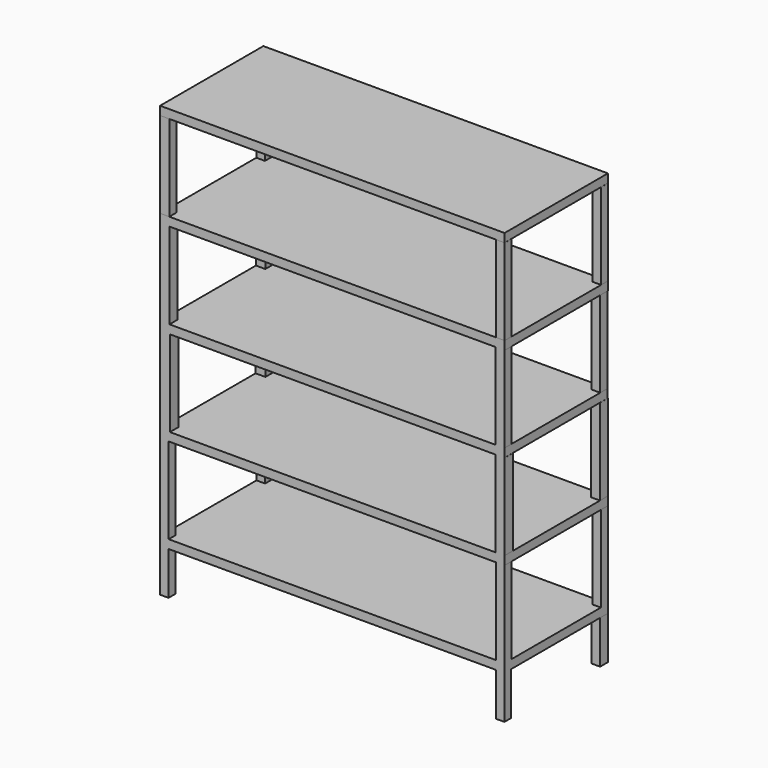
from build123d import *

# Parameters (mm, degrees)
F0_W      = 1219.2
F0_H      = 457.2
F1_DEPTH  = 30.48
F2_W      = 30.48
F2_H      = 30.48
F3_DEPTH  = 304.8
F4_W      = 1219.399333
F4_H      = 457.2
F5_DEPTH  = 30.48
F6_W      = 34.828458
F6_H      = 34.557978
F6_H_2    = 37.642892
F6_W_2    = 32.247782
F7_DEPTH  = 304.8
F8_W      = 1219.034433
F8_H      = 457.2
F9_DEPTH  = 30.48
F10_W     = 33.388406
F10_H     = 33.091525
F10_H_2   = 36.531758
F10_W_2   = 30.88665
F10_H_3   = 30.553704
F11_DEPTH = 304.8
F12_W     = 1219.895244
F12_H     = 457.2
F13_DEPTH = 30.48
F14_W     = 30.466625
F14_H     = 31.133303
F14_W_2   = 32.839023
F14_H_2   = 30.668437
F14_W_3   = 30.638695
F14_H_3   = 30.44186
F15_DEPTH = 304.8
F16_W     = 1219.728589
F16_H     = 457.2
F17_DEPTH = 30.48
F18_W     = 30.170821
F18_H     = 29.71437
F18_H_2   = 33.622691
F18_W_2   = 31.298265
F18_H_3   = 33.891836
F18_W_3   = 30.410752
F19_DEPTH = 152.4


with BuildPart() as f1:
    # F0 (on Top) → F1 (new body)
    with BuildSketch(Plane.XY):
        with Locations((609.6, 228.6)):
            Rectangle(F0_W, F0_H)
    extrude(amount=F1_DEPTH)

    # F2 (on face) → F3 (join)
    with BuildSketch(Plane.XY.offset(30.48)):
        with Locations((15.24, 15.24)):
            Rectangle(F2_W, F2_H)
        with Locations((15.24, 441.96)):
            Rectangle(F2_W, F2_H)
        with Locations((1203.96, 441.96)):
            Rectangle(F2_W, F2_H)
        with Locations((1203.96, 15.24)):
            Rectangle(F2_W, F2_H)
    extrude(amount=F3_DEPTH)

    # F4 (on face) → F5 (join)
    with BuildSketch(Plane.XY.offset(335.28)):
        with Locations((609.699666, 228.6)):
            Rectangle(F4_W, F4_H)
    extrude(amount=F5_DEPTH)

    # F6 (on face) → F7 (join)
    with BuildSketch(Plane.XY.offset(365.76)):
        with Locations((17.414229, 439.921011)):
            Rectangle(F6_W, F6_H)
        with Locations((17.414229, 18.821446)):
            Rectangle(F6_W, F6_H_2)
        with Locations((1203.275442, 18.821446)):
            Rectangle(F6_W_2, F6_H_2)
        with Locations((1203.275442, 439.921011)):
            Rectangle(F6_W_2, F6_H)
    extrude(amount=F7_DEPTH)

    # F8 (on face) → F9 (join)
    with BuildSketch(Plane.XY.offset(670.56)):
        with Locations((609.517217, 228.6)):
            Rectangle(F8_W, F8_H)
    extrude(amount=F9_DEPTH)

    # F10 (on face) → F11 (join)
    with BuildSketch(Plane.XY.offset(701.04)):
        with Locations((16.694203, 440.654238)):
            Rectangle(F10_W, F10_H)
        with Locations((16.694203, 18.265879)):
            Rectangle(F10_W, F10_H_2)
        with Locations((1203.591108, 15.276852)):
            Rectangle(F10_W_2, F10_H_3)
        with Locations((1203.591108, 440.654238)):
            Rectangle(F10_W_2, F10_H)
    extrude(amount=F11_DEPTH)

    # F12 (on face) → F13 (join)
    with BuildSketch(Plane.XY.offset(1005.84)):
        with Locations((609.947622, 228.6)):
            Rectangle(F12_W, F12_H)
    extrude(amount=F13_DEPTH)

    # F14 (on face) → F15 (join)
    with BuildSketch(Plane.XY.offset(1036.32)):
        with Locations((15.233312, 441.633349)):
            Rectangle(F14_W, F14_H)
        with Locations((16.419511, 15.334218)):
            Rectangle(F14_W_2, F14_H_2)
        with Locations((1204.575896, 15.334218)):
            Rectangle(F14_W_3, F14_H_2)
        with Locations((1204.575896, 441.97907)):
            Rectangle(F14_W_3, F14_H_3)
    extrude(amount=F15_DEPTH)

    # F16 (on face) → F17 (join)
    with BuildSketch(Plane.XY.offset(1341.12)):
        with Locations((609.864295, 228.6)):
            Rectangle(F16_W, F16_H)
    extrude(amount=F17_DEPTH)

    # F18 (on face) → F19 (join)
    with BuildSketch(Plane(origin=(0, 0, 0), x_dir=(1, 0, 0), z_dir=(0, 0, -1))):
        with Locations((15.085411, -14.857185)):
            Rectangle(F18_W, F18_H)
        with Locations((15.085411, -440.388654)):
            Rectangle(F18_W, F18_H_2)
        with Locations((1203.550868, -440.254082)):
            Rectangle(F18_W_2, F18_H_3)
        with Locations((1203.994624, -14.857185)):
            Rectangle(F18_W_3, F18_H)
    extrude(amount=F19_DEPTH)


solid = f1.part
